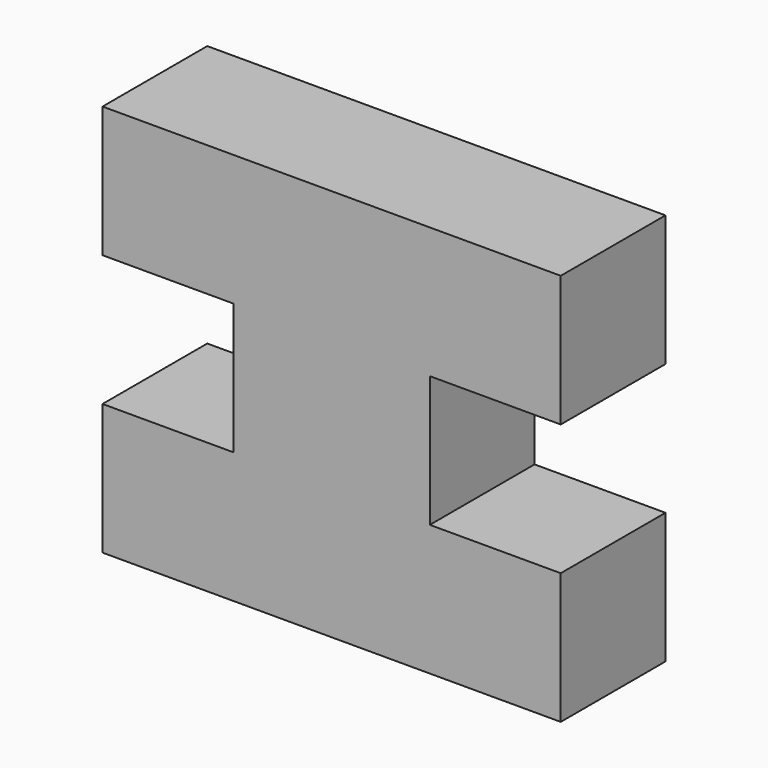
from build123d import *

# Parameters (mm, degrees)
F1_DEPTH = 12.7


with BuildPart() as f1:
    # F0 (on Front) → F1 (new body)
    with BuildSketch(Plane.XZ):
        Polygon((0, 12.7), (0, 0), (44.45, 0), (44.45, 12.7), (31.75, 12.7), (31.75, 25.4), (44.45, 25.4), (44.45, 38.1), (0, 38.1), (0, 25.4), (12.7, 25.4), (12.7, 12.7), align=None)
        Polygon((0, 12.7), (0, 0), (44.45, 0), (44.45, 12.7), (31.75, 12.7), (31.75, 25.4), (44.45, 25.4), (44.45, 38.1), (0, 38.1), (0, 25.4), (12.7, 25.4), (12.7, 12.7), align=None)
    extrude(amount=F1_DEPTH)


solid = f1.part
